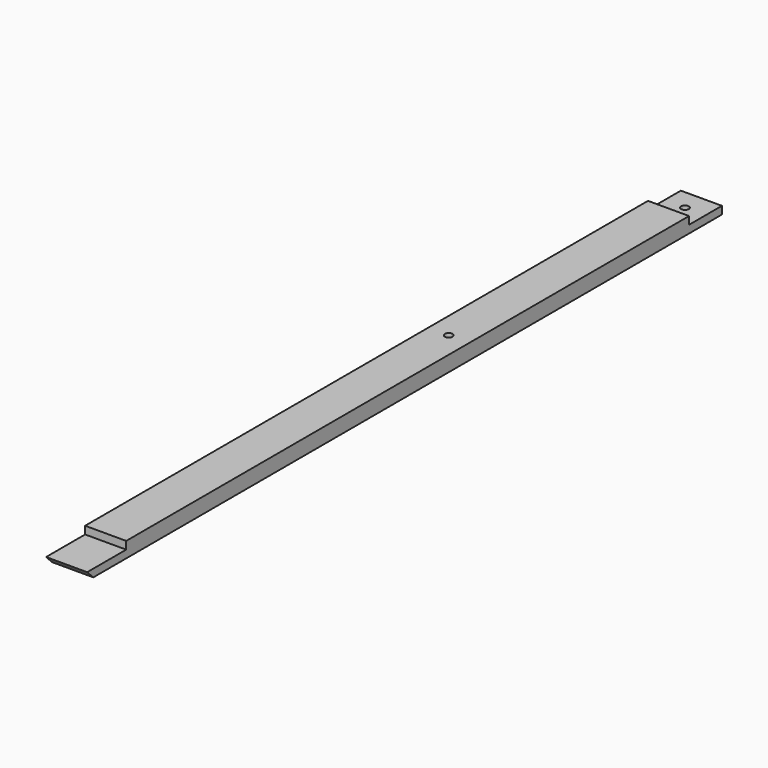
from build123d import *

# Parameters (mm, degrees)
F1_DEPTH = 25.4
F2_R     = 4.7625
F3_DEPTH = 12.7


with BuildPart() as f1:
    # F0 (on Right) → F1 (new body, symmetric)
    with BuildSketch(Plane.YZ):
        Polygon((787.4, 9.525), (0, 9.525), (-82.55, 9.525), (-82.55, 0), (-142.875, 0), (-133.35, -9.525), (-33.290768, -9.525), (838.2, -9.525), (838.2, 0), (787.4, 0), align=None)
    extrude(amount=F1_DEPTH, both=True)

    # F2 (on Top) → F3 (cut, symmetric)
    with BuildSketch(Plane.XY):
        with Locations((0, 812.8)):
            Circle(F2_R)
        with Locations((0, 447.675)):
            Circle(F2_R)
    extrude(amount=F3_DEPTH, both=True, mode=Mode.SUBTRACT)


solid = f1.part
